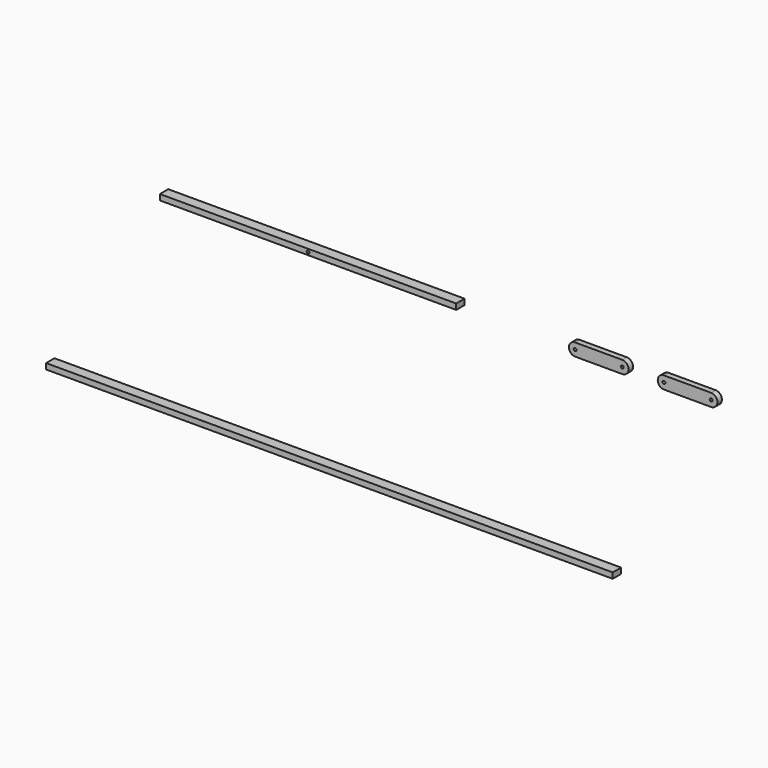
from build123d import *

# Parameters (mm, degrees)
F0_W     = 635
F0_H     = 6.35
F0_W_2   = 332.1304
F0_R     = 1.5875
F1_DEPTH = 11.7348
F2_DEPTH = 11.7348
F3_R     = 1.5875
F4_DEPTH = 6.35


with BuildPart() as f1:
    # F0 (on Front) → F1 (new body)
    with BuildSketch(Plane.XZ):
        with Locations((-56.189019, -29.221167)):
            Rectangle(F0_W, F0_H)
        with Locations((-80.121399, 179.028774)):
            Rectangle(F0_W_2, F0_H)
        with Locations((-80.121399, 179.028774)):
            Circle(F0_R, mode=Mode.SUBTRACT)
    extrude(amount=F1_DEPTH)


with BuildPart() as f2:
    # F0 (on Front) → F2 (new body)
    with BuildSketch(Plane.XZ):
        with Locations((-56.189019, -29.221167)):
            Rectangle(F0_W, F0_H)
        with Locations((-80.121399, 179.028774)):
            Rectangle(F0_W_2, F0_H)
        with Locations((-80.121399, 179.028774)):
            Circle(F0_R, mode=Mode.SUBTRACT)
    extrude(amount=F2_DEPTH)


with BuildPart() as f4:
    # F3 (on Front) → F4 (new body)
    with BuildSketch(Plane.XZ):
        with BuildLine():
            Line((267.727276, 183.517592), (214.895276, 183.517592))
            ThreePointArc((214.895276, 183.517592), (207.888375, 176.510692), (214.895276, 169.503791))
            Line((214.895276, 169.503791), (267.727276, 169.503791))
            ThreePointArc((267.727276, 169.503791), (274.734177, 176.510692), (267.727276, 183.517592))
        make_face()
        with Locations((214.895276, 176.510692)):
            Circle(F3_R, mode=Mode.SUBTRACT)
        with Locations((267.727276, 176.510692)):
            Circle(F3_R, mode=Mode.SUBTRACT)
        with BuildLine():
            Line((367.295276, 183.424743), (314.463276, 183.424743))
            ThreePointArc((314.463276, 183.424743), (307.456375, 176.417843), (314.463276, 169.410942))
            Line((314.463276, 169.410942), (367.295276, 169.410942))
            ThreePointArc((367.295276, 169.410942), (374.302177, 176.417843), (367.295276, 183.424743))
        make_face()
        with Locations((314.463276, 176.417843)):
            Circle(F3_R, mode=Mode.SUBTRACT)
        with Locations((367.295276, 176.417843)):
            Circle(F3_R, mode=Mode.SUBTRACT)
    extrude(amount=F4_DEPTH)


solid = Compound([f1.part, f2.part, f4.part])
